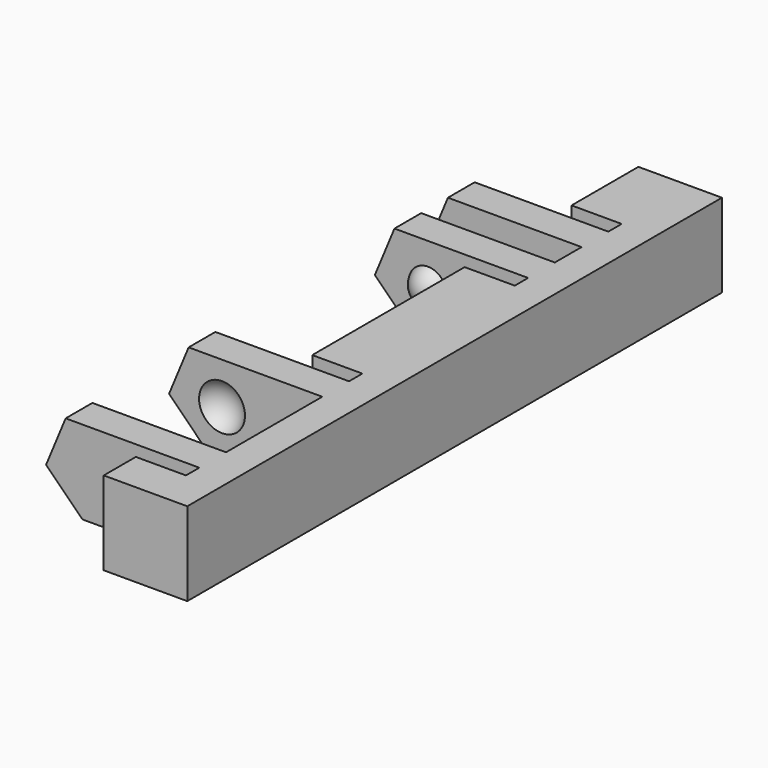
from build123d import *

# Parameters (mm, degrees)
BOX105_W               = 12
BOX105_H               = 44
BOX105_DEPTH           = 10
BOX101_W               = 4
BOX101_H               = 1
BOX101_DEPTH           = 7
BOX103_W               = 4
BOX103_H               = 1
BOX103_DEPTH           = 7
BOX100_W               = 4
BOX100_H               = 2
BOX100_DEPTH           = 7
BOX102_W               = 4
BOX102_H               = 1
BOX102_DEPTH           = 7
BOX099_W               = 4
BOX099_H               = 1
BOX099_DEPTH           = 7
BOX104_W               = 4
BOX104_H               = 7.2
BOX104_DEPTH           = 7
BOX098_W               = 13
BOX098_H               = 40
BOX098_DEPTH           = 10
BOX098_PITCH_ANGLE     = -45
BOX094_W               = 10
BOX094_H               = 2
BOX094_DEPTH           = 7
BOX095_W               = 10
BOX095_H               = 2
BOX095_DEPTH           = 7
BOX096_W               = 10
BOX096_H               = 2
BOX096_DEPTH           = 7
BOX097_W               = 10
BOX097_H               = 2
BOX097_DEPTH           = 7
BOX093_W               = 5
BOX093_H               = 40
BOX093_DEPTH           = 7
CHAMFER009_SIZE        = 4
CUT027_PLACEMENT_ANGLE = 180


with BuildPart() as cube089:
    # Box105 → Box105 (new body)
    with BuildSketch(Plane(origin=(-11, -2, -12), x_dir=(1, 0, 0), z_dir=(0, 0, 1))):
        with Locations((6, 22)):
            Rectangle(BOX105_W, BOX105_H)
    extrude(amount=BOX105_DEPTH)


with BuildPart() as cube085:
    # Box101 → Box101 (new body)
    with BuildSketch(Plane(origin=(-1, 12, 0), x_dir=(1, 0, 0), z_dir=(0, 0, 1))):
        with Locations((2, 0.5)):
            Rectangle(BOX101_W, BOX101_H)
    extrude(amount=BOX101_DEPTH)


with BuildPart() as cube087:
    # Box103 → Box103 (new body)
    with BuildSketch(Plane(origin=(-1, 36.6, 0), x_dir=(1, 0, 0), z_dir=(0, 0, 1))):
        with Locations((2, 0.5)):
            Rectangle(BOX103_W, BOX103_H)
    extrude(amount=BOX103_DEPTH)


with BuildPart() as cube084:
    # Box100 → Box100 (new body)
    with BuildSketch(Plane(origin=(-1, 8, 0), x_dir=(1, 0, 0), z_dir=(0, 0, 1))):
        with Locations((2, 1)):
            Rectangle(BOX100_W, BOX100_H)
    extrude(amount=BOX100_DEPTH)


with BuildPart() as cube086:
    # Box102 → Box102 (new body)
    with BuildSketch(Plane(origin=(-1, 24.4, 0), x_dir=(1, 0, 0), z_dir=(0, 0, 1))):
        with Locations((2, 0.5)):
            Rectangle(BOX102_W, BOX102_H)
    extrude(amount=BOX102_DEPTH)


with BuildPart() as cube083:
    # Box099 → Box099 (new body)
    with BuildSketch(Plane(origin=(-1, 5, 0), x_dir=(1, 0, 0), z_dir=(0, 0, 1))):
        with Locations((2, 0.5)):
            Rectangle(BOX099_W, BOX099_H)
    extrude(amount=BOX099_DEPTH)


with BuildPart() as fusion033:
    # Box104 → Box104 (new body)
    with BuildSketch(Plane(origin=(-1, 27.4, 0), x_dir=(1, 0, 0), z_dir=(0, 0, 1))):
        with Locations((2, 3.6)):
            Rectangle(BOX104_W, BOX104_H)
    extrude(amount=BOX104_DEPTH)

    # Fusion033: union Cube085, Cube087, Cube084, Cube086, Cube083
    add(cube085.part)
    add(cube087.part)
    add(cube084.part)
    add(cube086.part)
    add(cube083.part)


with BuildPart() as sphere037:
    # Sphere037 → Sphere037 (revolve)
    with BuildSketch(Plane(origin=(-3, 28, 2.5), x_dir=(1, 0, 0), z_dir=(0, -1, 0))):
        with BuildLine():
            ThreePointArc((0, -1.5), (1.5, 0), (0, 1.5))
            Line((0, 1.5), (0, -1.5))
        make_face()
    revolve(axis=Axis((-3, 28, 2.5), (0, 0, 1)))


with BuildPart() as fusion032:
    # Sphere038 → Sphere038 (revolve)
    with BuildSketch(Plane(origin=(-3, 34, 2.5), x_dir=(1, 0, 0), z_dir=(0, -1, 0))):
        with BuildLine():
            ThreePointArc((0, -1.5), (1.5, 0), (0, 1.5))
            Line((0, 1.5), (0, -1.5))
        make_face()
    revolve(axis=Axis((-3, 34, 2.5), (0, 0, 1)))

    # Fusion032: union Sphere037
    add(sphere037.part)


with BuildPart() as sphere036:
    # Sphere036 → Sphere036 (revolve)
    with BuildSketch(Plane(origin=(-3, 11.5, 2.5), x_dir=(1, 0, 0), z_dir=(0, -1, 0))):
        with BuildLine():
            ThreePointArc((0, -1.25), (1.25, 0), (0, 1.25))
            Line((0, 1.25), (0, -1.25))
        make_face()
    revolve(axis=Axis((-3, 11.5, 2.5), (0, 0, 1)))


with BuildPart() as cube082:
    # Box098 → Box098 (new body)
    with BuildSketch(Plane.XY):
        with Locations((6.5, 20)):
            Rectangle(BOX098_W, BOX098_H)
    extrude(amount=BOX098_DEPTH)


with BuildPart() as cube082_1:
    # Box098 pitch: moved
    add(cube082.part.rotate(Axis((0, 0, 0), (0, 1, 0)), BOX098_PITCH_ANGLE))


with BuildPart() as cube082_2:
    # Box098 placement: moved
    add(cube082_1.part.moved(Location((-10.19, 0, -1.19))))


with BuildPart() as cube078:
    # Box094 → Box094 (new body)
    with BuildSketch(Plane(origin=(-10, 6, 0), x_dir=(1, 0, 0), z_dir=(0, 0, 1))):
        with Locations((5, 1)):
            Rectangle(BOX094_W, BOX094_H)
    extrude(amount=BOX094_DEPTH)


with BuildPart() as cube079:
    # Box095 → Box095 (new body)
    with BuildSketch(Plane(origin=(-10, 10, 0), x_dir=(1, 0, 0), z_dir=(0, 0, 1))):
        with Locations((5, 1)):
            Rectangle(BOX095_W, BOX095_H)
    extrude(amount=BOX095_DEPTH)


with BuildPart() as cube080:
    # Box096 → Box096 (new body)
    with BuildSketch(Plane(origin=(-10, 25.4, 0), x_dir=(1, 0, 0), z_dir=(0, 0, 1))):
        with Locations((5, 1)):
            Rectangle(BOX096_W, BOX096_H)
    extrude(amount=BOX096_DEPTH)


with BuildPart() as cube081:
    # Box097 → Box097 (new body)
    with BuildSketch(Plane(origin=(-10, 34.6, 0), x_dir=(1, 0, 0), z_dir=(0, 0, 1))):
        with Locations((5, 1)):
            Rectangle(BOX097_W, BOX097_H)
    extrude(amount=BOX097_DEPTH)


with BuildPart() as cut025:
    # Box093 → Box093 (new body)
    with BuildSketch(Plane.XY):
        with Locations((2.5, 20)):
            Rectangle(BOX093_W, BOX093_H)
    extrude(amount=BOX093_DEPTH)

    # Fusion030: union Cube078, Cube079, Cube080, Cube081
    add(cube078.part)
    add(cube079.part)
    add(cube080.part)
    add(cube081.part)

    # Cut025: cut Cube082
    add(cube082_2.part, mode=Mode.SUBTRACT)


with BuildPart() as cut028:
    # Sphere035 → Sphere035 (revolve)
    with BuildSketch(Plane(origin=(-3, 6.5, 2.5), x_dir=(1, 0, 0), z_dir=(0, -1, 0))):
        with BuildLine():
            ThreePointArc((0, -1.25), (1.25, 0), (0, 1.25))
            Line((0, 1.25), (0, -1.25))
        make_face()
    revolve(axis=Axis((-3, 6.5, 2.5), (0, 0, 1)))

    # Fusion031: union Sphere036, Cut025
    add(sphere036.part)
    add(cut025.part)

    # Cut026: cut Fusion032
    add(fusion032.part, mode=Mode.SUBTRACT)

    # Chamfer009
    chamfer009_edges = [cut028.edges().sort_by_distance(p)[0] for p in [
        (-9, 7, 0),
        (-9, 11, 0),
        (-9, 35.6, 0),
        (-9, 26.4, 0),
    ]]
    chamfer(chamfer009_edges, length=CHAMFER009_SIZE)

    # Cut027: cut Fusion033
    add(fusion033.part, mode=Mode.SUBTRACT)


with BuildPart() as cut028_1:
    # Cut027 placement: moved
    add(cut028.part.moved(Location((-5, 40, 3))).rotate(Axis((-5, 40, 3), (1, 0, 0)), CUT027_PLACEMENT_ANGLE))

    # Cut028: cut Cube089
    add(cube089.part, mode=Mode.SUBTRACT)


solid = cut028_1.part
